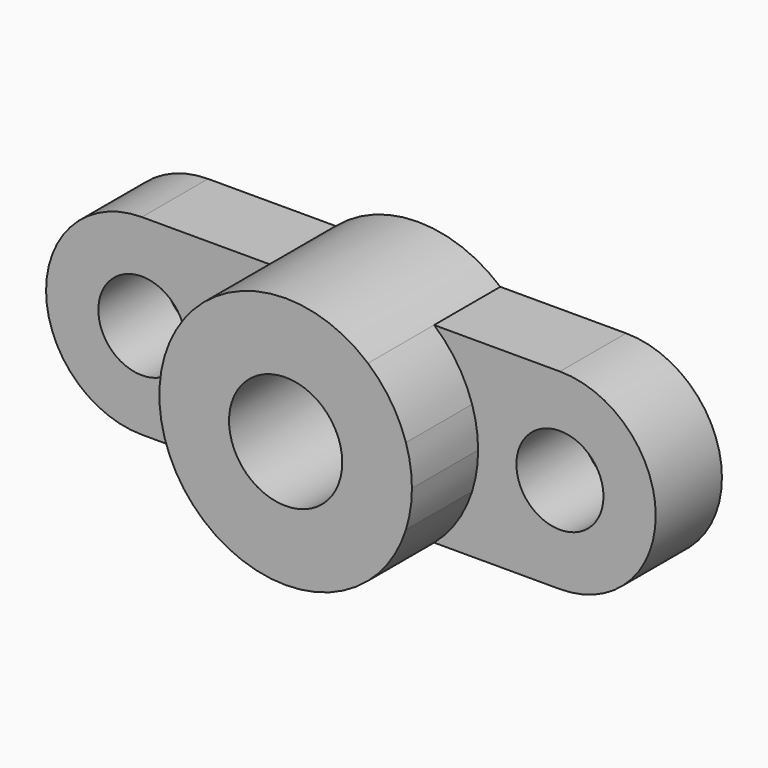
from build123d import *

# Parameters (mm, degrees)
F0_R     = 13
F0_R_2   = 10
F1_DEPTH = 19
F2_DEPTH = 38


with BuildPart() as f1:
    # F0 (on Front) → F1 (new body)
    with BuildSketch(Plane.XZ):
        with BuildLine():
            ThreePointArc((27.629639, -8.809258), (28.655362, -4.457604), (29, 0))
            ThreePointArc((29, 0), (28.655362, 4.457604), (27.629639, 8.809258))
            ThreePointArc((27.629639, 8.809258), (24.178947, 16.011824), (18.894444, 22))
            ThreePointArc((18.894444, 22), (0, 29), (-18.894444, 22))
            ThreePointArc((-18.894444, 22), (-24.345234, 15.757842), (-27.808005, 8.228905))
            ThreePointArc((-27.808005, 8.228905), (-29, 0), (-27.808005, -8.228905))
            ThreePointArc((-27.808005, -8.228905), (-24.345234, -15.757842), (-18.894444, -22))
            ThreePointArc((-18.894444, -22), (0, -29), (18.894444, -22))
            ThreePointArc((18.894444, -22), (24.178947, -16.011824), (27.629639, -8.809258))
        make_face()
        Circle(F0_R, mode=Mode.SUBTRACT)
        with BuildLine():
            ThreePointArc((27.629639, 8.809258), (28.655362, 4.457604), (29, 0))
            ThreePointArc((29, 0), (28.655362, -4.457604), (27.629639, -8.809258))
            ThreePointArc((27.629639, -8.809258), (35.743259, -18.409287), (47.788929, -22))
            ThreePointArc((47.788929, -22), (69.788929, 0), (47.788929, 22))
            ThreePointArc((47.788929, 22), (35.743259, 18.409287), (27.629639, 8.809258))
        make_face()
        with Locations((47.788929, 0)):
            Circle(F0_R_2, mode=Mode.SUBTRACT)
        with BuildLine():
            ThreePointArc((18.894444, 22), (24.178947, 16.011824), (27.629639, 8.809258))
            ThreePointArc((27.629639, 8.809258), (35.743259, 18.409287), (47.788929, 22))
            Line((47.788929, 22), (18.894444, 22))
        make_face()
        with BuildLine():
            ThreePointArc((47.788929, -22), (35.743259, -18.409287), (27.629639, -8.809258))
            ThreePointArc((27.629639, -8.809258), (24.178947, -16.011824), (18.894444, -22))
            Line((18.894444, -22), (47.788929, -22))
        make_face()
        with BuildLine():
            ThreePointArc((-27.808005, 8.228905), (-24.345234, 15.757842), (-18.894444, 22))
            Line((-18.894444, 22), (-48.211071, 22))
            ThreePointArc((-48.211071, 22), (-35.903267, 18.235075), (-27.808005, 8.228905))
        make_face()
        with BuildLine():
            Line((-48.211071, -22), (-18.894444, -22))
            ThreePointArc((-18.894444, -22), (-24.345234, -15.757842), (-27.808005, -8.228905))
            ThreePointArc((-27.808005, -8.228905), (-35.903267, -18.235075), (-48.211071, -22))
        make_face()
        with BuildLine():
            ThreePointArc((-27.808005, -8.228905), (-29, 0), (-27.808005, 8.228905))
            ThreePointArc((-27.808005, 8.228905), (-35.903267, 18.235075), (-48.211071, 22))
            ThreePointArc((-48.211071, 22), (-70.211071, 0), (-48.211071, -22))
            ThreePointArc((-48.211071, -22), (-35.903267, -18.235075), (-27.808005, -8.228905))
        make_face()
        with Locations((-48.211071, 0)):
            Circle(F0_R_2, mode=Mode.SUBTRACT)
    extrude(amount=F1_DEPTH)

    # F0 (on Front) → F2 (join)
    with BuildSketch(Plane.XZ):
        with BuildLine():
            ThreePointArc((27.629639, -8.809258), (28.655362, -4.457604), (29, 0))
            ThreePointArc((29, 0), (28.655362, 4.457604), (27.629639, 8.809258))
            ThreePointArc((27.629639, 8.809258), (24.178947, 16.011824), (18.894444, 22))
            ThreePointArc((18.894444, 22), (0, 29), (-18.894444, 22))
            ThreePointArc((-18.894444, 22), (-24.345234, 15.757842), (-27.808005, 8.228905))
            ThreePointArc((-27.808005, 8.228905), (-29, 0), (-27.808005, -8.228905))
            ThreePointArc((-27.808005, -8.228905), (-24.345234, -15.757842), (-18.894444, -22))
            ThreePointArc((-18.894444, -22), (0, -29), (18.894444, -22))
            ThreePointArc((18.894444, -22), (24.178947, -16.011824), (27.629639, -8.809258))
        make_face()
        Circle(F0_R, mode=Mode.SUBTRACT)
    extrude(amount=F2_DEPTH)


solid = f1.part
